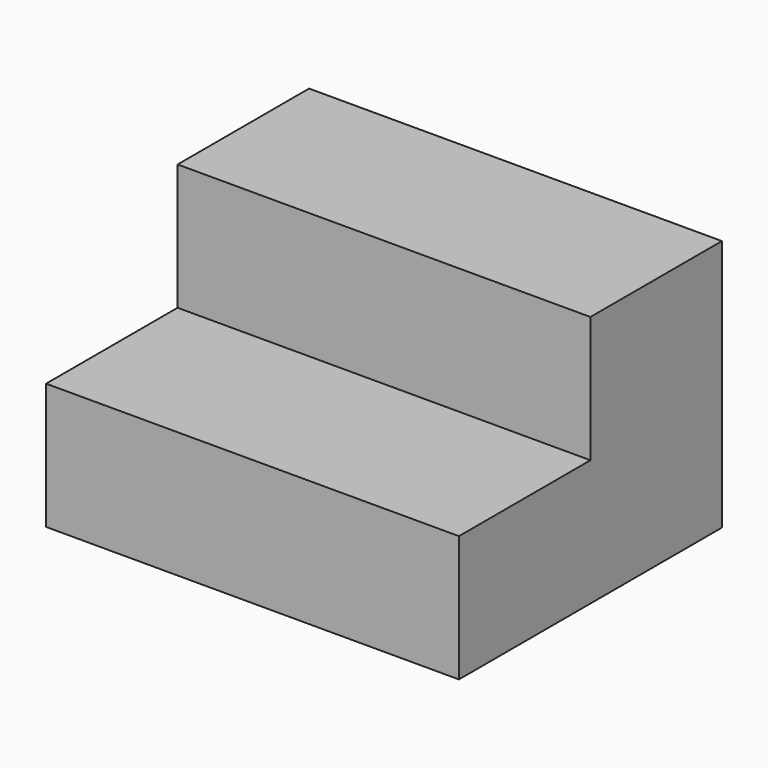
from build123d import *

# Parameters (mm, degrees)
F0_W     = 273.05
F0_H     = 228.6
F1_DEPTH = 228.6
F3_DEPTH = 228.6


with BuildPart() as f1:
    # F0 (on Right) → F1 (new body)
    with BuildSketch(Plane.YZ):
        with Locations((136.525, 114.3)):
            Rectangle(F0_W, F0_H)
    extrude(amount=-F1_DEPTH)

    # F2 (on face) → F3 (cut, through all)
    with BuildSketch(Plane.YZ):
        Polygon((182.033333, 139.7), (273.05, 139.7), (273.05, 228.6), (0, 228.6), (0, 0), (91.016667, 0), (91.016667, 69.85), (182.033333, 69.85), align=None)
    extrude(amount=-F3_DEPTH, mode=Mode.SUBTRACT)


solid = f1.part
